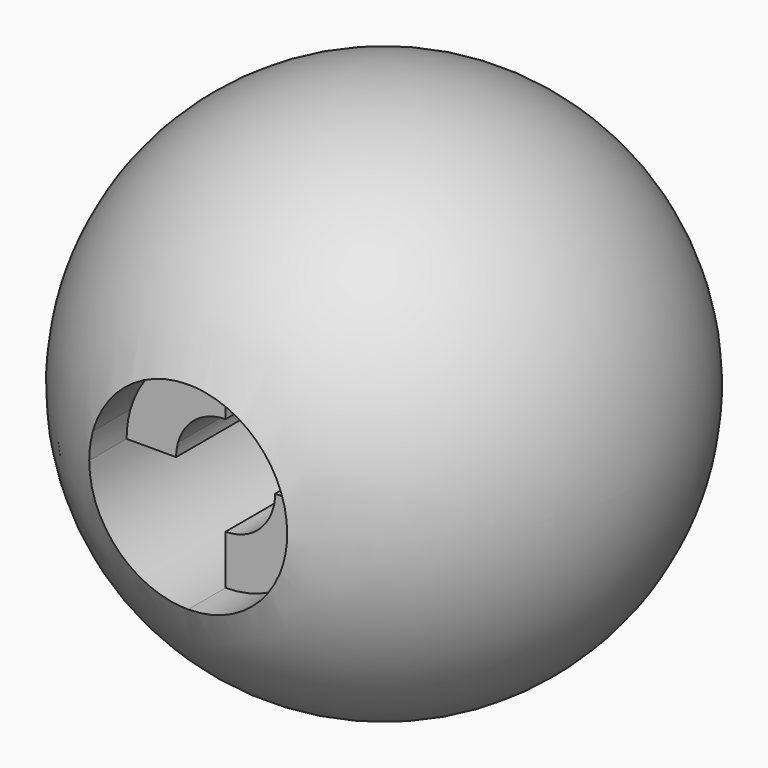
from build123d import *

# Parameters (mm, degrees)
F3_DEPTH = 100
F4_DEPTH = 30
F5_DEPTH = 15
F6_DEPTH = 30


with BuildPart() as f2:
    # F0 (on Top) → F2 (revolve)
    with BuildSketch(Plane.XY):
        with BuildLine():
            Line((40, 0), (-40, 0))
            ThreePointArc((-40, 0), (0, -40), (40, 0))
        make_face()
    revolve(axis=Axis((0, 0, 0), (1, 0, 0)))

    # F1 (on Front) → F3 (cut)
    with BuildSketch(Plane.XZ):
        with BuildLine():
            Line((7.5, 0), (15, 0))
            ThreePointArc((15, 0), (10.606602, 10.606602), (0, 15))
            Line((0, 15), (0, 7.5))
            ThreePointArc((0, 7.5), (-4.522025, 5.983418), (-7.215244, 2.04701))
            Line((-7.215244, 2.04701), (0, 0))
            Line((0, 0), (7.215244, -2.04701))
            ThreePointArc((7.215244, -2.04701), (7.42847, -1.033361), (7.5, 0))
        make_face()
        with BuildLine():
            ThreePointArc((14.430488, -4.094021), (14.85694, -2.066721), (15, 0))
            Line((15, 0), (7.5, 0))
            ThreePointArc((7.5, 0), (7.42847, -1.033361), (7.215244, -2.04701))
            Line((7.215244, -2.04701), (14.430488, -4.094021))
        make_face()
        with BuildLine():
            Line((0, 7.5), (0, 15))
            ThreePointArc((0, 15), (-9.04405, 11.966836), (-14.430488, 4.094021))
            Line((-14.430488, 4.094021), (-7.215244, 2.04701))
            ThreePointArc((-7.215244, 2.04701), (-4.522025, 5.983418), (0, 7.5))
        make_face()
        with BuildLine():
            ThreePointArc((0, -15), (9.04405, -11.966836), (14.430488, -4.094021))
            Line((14.430488, -4.094021), (7.215244, -2.04701))
            ThreePointArc((7.215244, -2.04701), (4.522025, -5.983418), (0, -7.5))
            Line((0, -7.5), (0, -15))
        make_face()
        with BuildLine():
            Line((-7.215244, 2.04701), (-14.430488, 4.094021))
            ThreePointArc((-14.430488, 4.094021), (-14.85694, 2.066721), (-15, 0))
            Line((-15, 0), (-7.5, 0))
            ThreePointArc((-7.5, 0), (-7.42847, 1.033361), (-7.215244, 2.04701))
        make_face()
        with BuildLine():
            ThreePointArc((-15, 0), (-10.606602, -10.606602), (0, -15))
            Line((0, -15), (0, -7.5))
            ThreePointArc((0, -7.5), (4.522025, -5.983418), (7.215244, -2.04701))
            Line((7.215244, -2.04701), (0, 0))
            Line((0, 0), (-7.215244, 2.04701))
            ThreePointArc((-7.215244, 2.04701), (-7.42847, 1.033361), (-7.5, 0))
            Line((-7.5, 0), (-15, 0))
        make_face()
    extrude(amount=F3_DEPTH, mode=Mode.SUBTRACT)

    # F1 (on Front) → F4 (join)
    with BuildSketch(Plane.XZ):
        with BuildLine():
            Line((0, 7.5), (0, 15))
            ThreePointArc((0, 15), (-9.04405, 11.966836), (-14.430488, 4.094021))
            Line((-14.430488, 4.094021), (-7.215244, 2.04701))
            ThreePointArc((-7.215244, 2.04701), (-4.522025, 5.983418), (0, 7.5))
        make_face()
        with BuildLine():
            ThreePointArc((0, -15), (9.04405, -11.966836), (14.430488, -4.094021))
            Line((14.430488, -4.094021), (7.215244, -2.04701))
            ThreePointArc((7.215244, -2.04701), (4.522025, -5.983418), (0, -7.5))
            Line((0, -7.5), (0, -15))
        make_face()
    extrude(amount=F4_DEPTH)

    # F1 (on Front) → F5 (cut)
    with BuildSketch(Plane.XZ):
        with BuildLine():
            Line((0, 7.5), (0, 15))
            ThreePointArc((0, 15), (-9.04405, 11.966836), (-14.430488, 4.094021))
            Line((-14.430488, 4.094021), (-7.215244, 2.04701))
            ThreePointArc((-7.215244, 2.04701), (-4.522025, 5.983418), (0, 7.5))
        make_face()
        with BuildLine():
            ThreePointArc((0, -15), (9.04405, -11.966836), (14.430488, -4.094021))
            Line((14.430488, -4.094021), (7.215244, -2.04701))
            ThreePointArc((7.215244, -2.04701), (4.522025, -5.983418), (0, -7.5))
            Line((0, -7.5), (0, -15))
        make_face()
    extrude(amount=F5_DEPTH, mode=Mode.SUBTRACT)

    # F1 (on Front) → F6 (join)
    with BuildSketch(Plane.XZ):
        with BuildLine():
            Line((-7.215244, 2.04701), (-14.430488, 4.094021))
            ThreePointArc((-14.430488, 4.094021), (-14.85694, 2.066721), (-15, 0))
            Line((-15, 0), (-7.5, 0))
            ThreePointArc((-7.5, 0), (-7.42847, 1.033361), (-7.215244, 2.04701))
        make_face()
        with BuildLine():
            ThreePointArc((14.430488, -4.094021), (14.85694, -2.066721), (15, 0))
            Line((15, 0), (7.5, 0))
            ThreePointArc((7.5, 0), (7.42847, -1.033361), (7.215244, -2.04701))
            Line((7.215244, -2.04701), (14.430488, -4.094021))
        make_face()
    extrude(amount=F6_DEPTH)


solid = f2.part
